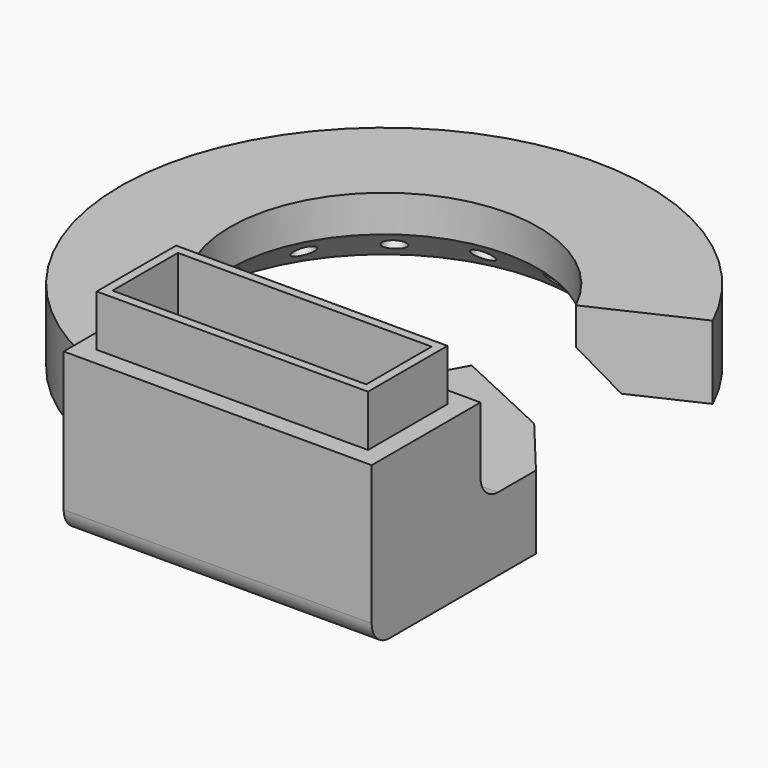
from build123d import *

# Parameters (mm, degrees)
F1_ANGLE_START = 25
F1_ANGLE       = 310
F3_DEPTH       = 10
F5_DEPTH       = 12
F6_W           = 37
F6_H           = 13.54
F7_DEPTH       = 7
F8_T           = -1.2
F11_R          = 1.5
F12_DEPTH      = 25
F13_COUNT      = 15
F14_R          = 3


with BuildPart() as f1:
    # F0 (on Front) → F1 (revolve)
    with BuildSketch(Plane.XZ, mode=Mode.PRIVATE) as f1_sk:
        Polygon((36, 10), (21, 10), (21, 5), (26, 0), (36, 0), align=None)
    revolve(f1_sk.sketch.rotate(Axis((0, 0, 4.7696232796), (0, 0, -1)), F1_ANGLE_START), axis=Axis((0, 0, 4.7696232796), (0, 0, -1)), revolution_arc=F1_ANGLE)

    # F2 (on Top) → F3 (join, through all)
    with BuildSketch(Plane.XY):
        Polygon((-2.5, -31.4414165914), (-2.5, -51.5), (39.5, -51.5), (39.5, -23.5), (32.6270803333, -15.2142574227), align=None)
    extrude(amount=F3_DEPTH)

    # F4 (on face) → F5 (join)
    with BuildSketch(Plane.XY.offset(10)):
        Polygon((-2.5, -35.9130895357), (-2.5, -51.5), (39.5, -51.5), (39.5, -32.96), (-2.5, -32.96), align=None)
    extrude(amount=F5_DEPTH)

    # F6 (on face) → F7 (join)
    with BuildSketch(Plane.XY.offset(22)):
        with Locations((18.5, -42.23)):
            Rectangle(F6_W, F6_H)
    extrude(amount=F7_DEPTH)

    # F8
    f8_openings = [f1.faces().sort_by_distance(p)[0] for p in [
        (18.5, -42.23, 29),
    ]]
    offset(amount=F8_T, openings=f8_openings, kind=Kind.INTERSECTION)

    # F13: F12 ×15 about axis
    f13_axis = Axis((0, 0, 4.7696232796), (0, 0, -1))


with BuildPart() as f12:
    # F11 (on line) → F12 (new body)
    with BuildSketch(Plane(origin=(0, 0, 0), x_dir=(1, 0, 0), z_dir=(0, -0.7071067812, 0.7071067812))):
        with Locations((0, -14.8492424049)):
            Circle(F11_R)
    extrude(amount=F12_DEPTH)


with BuildPart() as f1_1:
    add(f1.part)
    for i in range(1, F13_COUNT):
        add(f12.part.rotate(f13_axis, i * 360 / F13_COUNT), mode=Mode.SUBTRACT)

    # F13#seed: cut F12
    add(f12.part, mode=Mode.SUBTRACT)

    # F14
    f14_edges = [f1_1.edges().sort_by_distance(p)[0] for p in [
        (18.5, -51.5, 0),
        (18.5, -50.3, 1.2),
        (18.5, -34.16, 8.8),
        (18.5, -32.96, 10),
        (-2.5, -35.91309, 5),
    ]]
    fillet(f14_edges, radius=F14_R)


solid = f1_1.part
